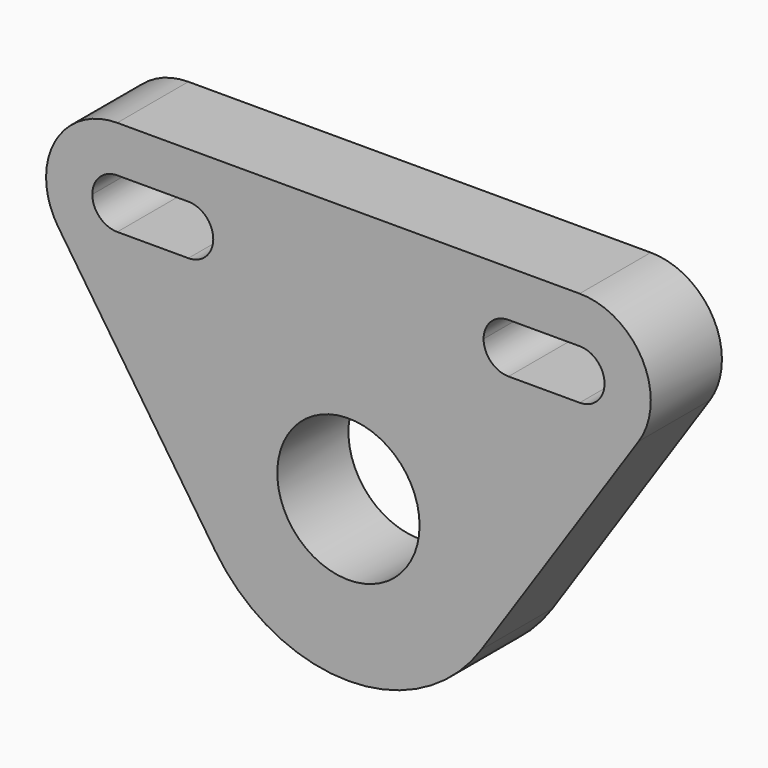
from build123d import *

# Parameters (mm, degrees)
F0_R     = 20
F1_DEPTH = 25


with BuildPart() as f1:
    # F0 (on Front) → F1 (new body)
    with BuildSketch(Plane.XZ):
        with BuildLine():
            Line((-81.60754, 40.85596), (-37.366964, -25.07409))
            ThreePointArc((-37.366964, -25.07409), (-4e-06, -45), (37.36696, -25.074096))
            Line((37.36696, -25.074096), (81.607554, 40.855957))
            ThreePointArc((81.607554, 40.855957), (82.647691, 61.41061), (65.000016, 72))
            Line((65.000016, 72), (-65, 72))
            ThreePointArc((-65, 72), (-82.647674, 61.410611), (-81.60754, 40.85596))
        make_face()
        Circle(F0_R, mode=Mode.SUBTRACT)
        with BuildLine():
            ThreePointArc((-72, 52), (-69.949747, 56.949747), (-65, 59))
            Line((-65, 59), (-45, 59))
            ThreePointArc((-45, 59), (-40.050253, 56.949747), (-38, 52))
            ThreePointArc((-38, 52), (-40.050253, 47.050253), (-45, 45))
            Line((-45, 45), (-65, 45))
            ThreePointArc((-65, 45), (-69.949747, 47.050253), (-72, 52))
        make_face(mode=Mode.SUBTRACT)
        with BuildLine():
            Line((65, 45), (45, 45))
            ThreePointArc((45, 45), (40.050253, 47.050253), (38, 52))
            ThreePointArc((38, 52), (40.050253, 56.949747), (45, 59))
            Line((45, 59), (65, 59))
            ThreePointArc((65, 59), (69.949747, 56.949747), (72, 52))
            ThreePointArc((72, 52), (69.949747, 47.050253), (65, 45))
        make_face(mode=Mode.SUBTRACT)
    extrude(amount=F1_DEPTH)


solid = f1.part
